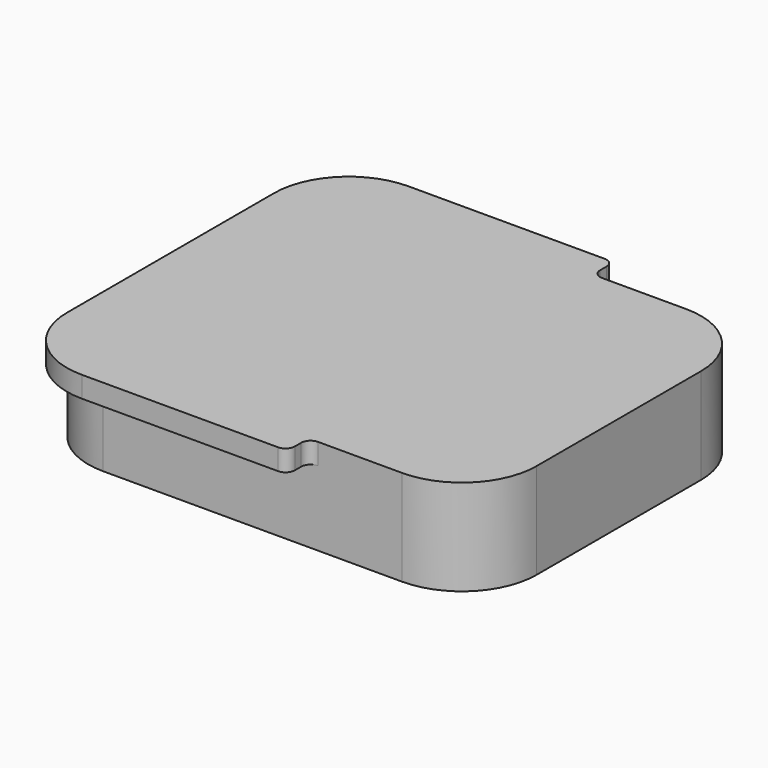
from build123d import *

# Parameters (mm, degrees)
F1_DEPTH = 10.25
F3_DEPTH = 2.25


with BuildPart() as f1:
    # F0 (on Top) → F1 (new body)
    with BuildSketch(Plane.XY):
        with BuildLine():
            Line((16, 19), (-16, 19))
            ThreePointArc((-16, 19), (-21.656854, 16.656854), (-24, 11))
            Line((-24, 11), (-24, -11))
            ThreePointArc((-24, -11), (-21.656854, -16.656854), (-16, -19))
            Line((-16, -19), (16, -19))
            ThreePointArc((16, -19), (21.656854, -16.656854), (24, -11))
            Line((24, -11), (24, 11))
            ThreePointArc((24, 11), (21.656854, 16.656854), (16, 19))
        make_face()
    extrude(amount=F1_DEPTH)

    # F2 (on face) → F3 (join)
    with BuildSketch(Plane.XY.offset(10.25)):
        with BuildLine():
            Line((5, 21.85), (-16, 21.85))
            ThreePointArc((-16, 21.85), (-21.656854, 19.506854), (-24, 13.85))
            Line((-24, 13.85), (-24, 11))
            ThreePointArc((-24, 11), (-21.656854, 16.656854), (-16, 19))
            Line((-16, 19), (7, 19))
            ThreePointArc((7, 19), (6.292893, 19.292893), (6, 20))
            Line((6, 20), (6, 20.85))
            ThreePointArc((6, 20.85), (5.707107, 21.557107), (5, 21.85))
        make_face()
        with BuildLine():
            ThreePointArc((-16, -19), (-21.656854, -16.656854), (-24, -11))
            Line((-24, -11), (-24, -13.85))
            ThreePointArc((-24, -13.85), (-21.656854, -19.506854), (-16, -21.85))
            Line((-16, -21.85), (5, -21.85))
            ThreePointArc((5, -21.85), (5.707107, -21.557107), (6, -20.85))
            Line((6, -20.85), (6, -20))
            ThreePointArc((6, -20), (6.292893, -19.292893), (7, -19))
            Line((7, -19), (-16, -19))
        make_face()
    extrude(amount=-F3_DEPTH)


solid = f1.part
